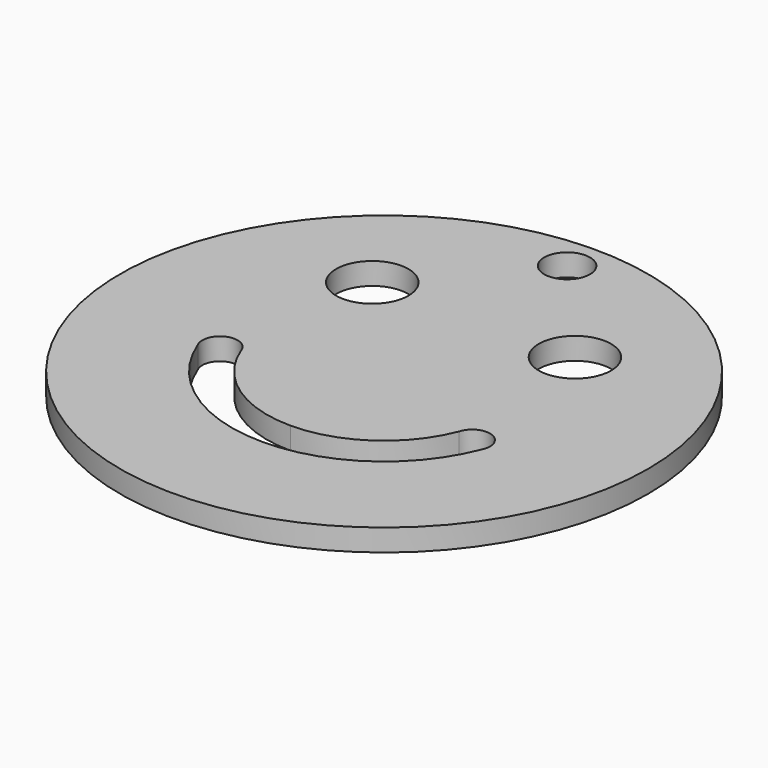
from build123d import *

# Parameters (mm, degrees)
F0_R     = 38.1
F0_R_2   = 5.21993
F0_R_3   = 3.304123
F1_DEPTH = 3.175


with BuildPart() as f1:
    # F0 (on Top) → F1 (new body)
    with BuildSketch(Plane.XY):
        Circle(F0_R)
        with BuildLine():
            ThreePointArc((0, -21.991588), (-12.39749, -18.164036), (-20.479508, -8.013721))
            ThreePointArc((-20.479508, -8.013721), (-19.139193, -4.468595), (-15.748794, -6.162572))
            ThreePointArc((-15.748794, -6.162572), (-9.533702, -13.968191), (0, -16.911588))
            ThreePointArc((0, -16.911588), (9.533702, -13.968191), (15.748794, -6.162572))
            ThreePointArc((15.748794, -6.162572), (19.139193, -4.468595), (20.479508, -8.013721))
            ThreePointArc((20.479508, -8.013721), (12.39749, -18.164036), (0, -21.991588))
        make_face(mode=Mode.SUBTRACT)
        with Locations((-14.628219, 16.154641)):
            Circle(F0_R_2, mode=Mode.SUBTRACT)
        with Locations((14.628219, 16.154641)):
            Circle(F0_R_2, mode=Mode.SUBTRACT)
        with Locations((0, 33.02)):
            Circle(F0_R_3, mode=Mode.SUBTRACT)
    extrude(amount=F1_DEPTH)


solid = f1.part
